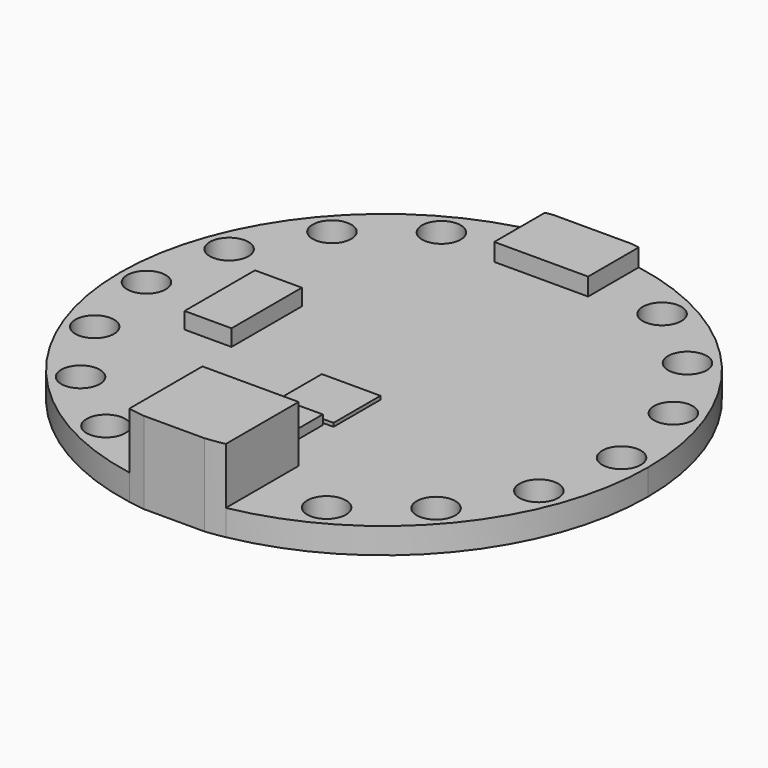
from build123d import *

# Parameters (mm, degrees)
F0_R     = 1.65
F0_W     = 3.56
F0_H     = 3
F0_W_2   = 5
F0_H_2   = 5
F0_W_3   = 4
F0_H_3   = 7.5
F1_DEPTH = 2.2
F2_DEPTH = 3.7
F3_DEPTH = 7
F4_DEPTH = 3.6
F5_DEPTH = 2.5
F6_DEPTH = 3


with BuildPart() as f1:
    # F0 (on Top) → F1 (new body)
    with BuildSketch(Plane.XY):
        with BuildLine():
            ThreePointArc((4.20097, -22.10434), (17.331645, -14.347965), (22.5, 0))
            ThreePointArc((22.5, 0), (17.266613, 14.42616), (4.00097, 22.141415))
            Line((4.00097, 22.141415), (4.00097, 16.75))
            Line((4.00097, 16.75), (-3.99903, 16.75))
            Line((-3.99903, 16.75), (-3.99903, 22.141765))
            ThreePointArc((-3.99903, 22.141765), (-22.5, 0), (-3.99903, -22.141765))
            Line((-3.99903, -22.141765), (-3.99903, -14.35))
            Line((-3.99903, -14.35), (4.20097, -14.35))
            Line((4.20097, -14.35), (4.20097, -22.10434))
        make_face()
        with Locations((-15.153525, -13.395359)):
            Circle(F0_R, mode=Mode.SUBTRACT)
        with Locations((-9.405204, -17.872991)):
            Circle(F0_R, mode=Mode.SUBTRACT)
        with Locations((-18.933541, -7.166085)):
            Circle(F0_R, mode=Mode.SUBTRACT)
        with Locations((9.405204, -17.872991)):
            Circle(F0_R, mode=Mode.SUBTRACT)
        with Locations((15.153525, -13.395359)):
            Circle(F0_R, mode=Mode.SUBTRACT)
        with Locations((0, -10.25)):
            Rectangle(F0_W, F0_H, mode=Mode.SUBTRACT)
        with Locations((0, -6)):
            Rectangle(F0_W_2, F0_H_2, mode=Mode.SUBTRACT)
        with Locations((18.933541, -7.166085)):
            Circle(F0_R, mode=Mode.SUBTRACT)
        with Locations((-20.25097, 0.000278)):
            Circle(F0_R, mode=Mode.SUBTRACT)
        with Locations((-12, 0)):
            Rectangle(F0_W_3, F0_H_3, mode=Mode.SUBTRACT)
        with Locations((-18.933541, 7.166641)):
            Circle(F0_R, mode=Mode.SUBTRACT)
        with Locations((-15.153525, 13.395914)):
            Circle(F0_R, mode=Mode.SUBTRACT)
        with Locations((-9.405204, 17.873546)):
            Circle(F0_R, mode=Mode.SUBTRACT)
        with Locations((20.25097, 0.000278)):
            Circle(F0_R, mode=Mode.SUBTRACT)
        with Locations((18.933541, 7.166641)):
            Circle(F0_R, mode=Mode.SUBTRACT)
        with Locations((9.405204, 17.873546)):
            Circle(F0_R, mode=Mode.SUBTRACT)
        with Locations((15.153525, 13.395914)):
            Circle(F0_R, mode=Mode.SUBTRACT)
    extrude(amount=F1_DEPTH)

    # F0 (on Top) → F2 (join)
    with BuildSketch(Plane.XY):
        with BuildLine():
            Line((4.00097, 16.75), (4.00097, 22.141415))
            ThreePointArc((4.00097, 22.141415), (3.673272, 22.198132), (3.344772, 22.25))
            Line((3.344772, 22.25), (-3.344772, 22.25))
            ThreePointArc((-3.344772, 22.25), (-3.6723, 22.198293), (-3.99903, 22.141765))
            Line((-3.99903, 22.141765), (-3.99903, 16.75))
            Line((-3.99903, 16.75), (4.00097, 16.75))
        make_face()
    extrude(amount=F2_DEPTH)

    # F0 (on Top) → F3 (join)
    with BuildSketch(Plane.XY):
        with BuildLine():
            ThreePointArc((2.593742, -22.35), (3.399576, -22.241692), (4.20097, -22.10434))
            Line((4.20097, -22.10434), (4.20097, -14.35))
            Line((4.20097, -14.35), (-3.99903, -14.35))
            Line((-3.99903, -14.35), (-3.99903, -22.141765))
            ThreePointArc((-3.99903, -22.141765), (-3.29803, -22.256976), (-2.593742, -22.35))
            Line((-2.593742, -22.35), (2.593742, -22.35))
        make_face()
    extrude(amount=F3_DEPTH)

    # F0 (on Top) → F4 (join)
    with BuildSketch(Plane.XY):
        with Locations((-12, 0)):
            Rectangle(F0_W_3, F0_H_3)
    extrude(amount=F4_DEPTH)

    # F0 (on Top) → F5 (join)
    with BuildSketch(Plane.XY):
        with Locations((0, -6)):
            Rectangle(F0_W_2, F0_H_2)
    extrude(amount=F5_DEPTH)

    # F0 (on Top) → F6 (join)
    with BuildSketch(Plane.XY):
        with Locations((0, -10.25)):
            Rectangle(F0_W, F0_H)
    extrude(amount=F6_DEPTH)


solid = f1.part
